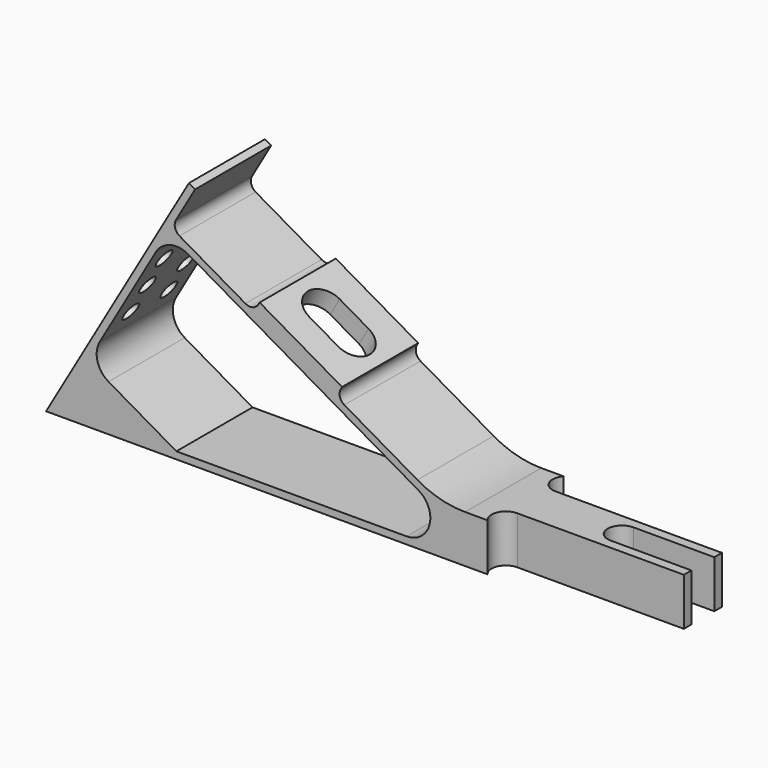
from build123d import *

# Parameters (mm, degrees)
F1_DEPTH       = 10
F3_DEPTH       = 10.001
F5_D           = 8.5
F5_CBORE_D     = 11
F5_CBORE_DEPTH = 2
F4_R           = 1.895
F6_DEPTH       = 1.5
F7_R           = 2
F9_DEPTH       = 4


with BuildPart() as f1:
    # F0 (on Front) → F1 (new body, symmetric)
    with BuildSketch(Plane.XZ):
        with BuildLine():
            Line((30, 51.9615242271), (0, 0))
            Line((0, 0), (130, 0))
            Line((130, 0), (130, 10))
            Line((130, 10), (88.031548244, 10))
            ThreePointArc((88.031548244, 10), (82.855167342, 10.6814834742), (78.031548244, 12.6794919243))
            Line((78.031548244, 12.6794919243), (60.9383223748, 22.5482704812))
            Line((60.9383223748, 22.5482704812), (62.1883223748, 24.7133339907))
            Line((62.1883223748, 24.7133339907), (44.8678142991, 34.7133339907))
            Line((44.8678142991, 34.7133339907), (43.6178142991, 32.5482704812))
            Line((43.6178142991, 32.5482704812), (26.2973062234, 42.5482704812))
            Line((26.2973062234, 42.5482704812), (31.2990381057, 51.2115242271))
            Line((31.2990381057, 51.2115242271), (30, 51.9615242271))
        make_face()
        with BuildLine():
            ThreePointArc((78.2347422219, 10.8301270189), (80.5643713533, 5.2059047745), (75.7347422219, 1.5))
            Line((75.7347422219, 1.5), (27.3774332424, 1.5))
            Line((27.3774332424, 1.5), (13.1251234055, 9.7387149337))
            ThreePointArc((13.1251234055, 9.7387149337), (10.7974587698, 12.7747007163), (11.2973058678, 16.5675077516))
            Line((11.2973058678, 16.5675077516), (23.0473062234, 36.9191053566))
            ThreePointArc((23.0473062234, 36.9191053566), (26.0833380169, 39.2487344881), (29.8774332424, 38.7492323755))
            Line((29.8774332424, 38.7492323755), (78.2347422219, 10.8301270189))
        make_face(mode=Mode.SUBTRACT)
    extrude(amount=F1_DEPTH, both=True)

    # F2 (on face) → F3 (cut, through all)
    with BuildSketch(Plane.XY.offset(10)):
        with BuildLine():
            Line((130, -10), (130, -5))
            Line((130, -5), (95, -5))
            ThreePointArc((95, -5), (92.2613872125, -6.7752551286), (92.7639320225, -10))
            Line((92.7639320225, -10), (130, -10))
        make_face()
        with BuildLine():
            ThreePointArc((92.7639320225, 10), (92.2613872125, 6.7752551286), (95, 5))
            Line((95, 5), (130, 5))
            Line((130, 5), (130, 10))
            Line((130, 10), (92.7639320225, 10))
        make_face()
        with BuildLine():
            Line((130, -3), (130, 3))
            Line((130, 3), (113, 3))
            ThreePointArc((113, 3), (110, 0), (113, -3))
            Line((113, -3), (130, -3))
        make_face()
    extrude(amount=-F3_DEPTH, mode=Mode.SUBTRACT)

    # F5 (through all)
    with Locations(Plane(origin=(0, 0, 0), x_dir=(0, -1, 0), z_dir=(-0.8660254038, 0, 0.5))):
        with Locations((0, 7.5)):
            CounterBoreHole(F5_D / 2, F5_CBORE_D / 2, F5_CBORE_DEPTH)

    # F4 (on face) → F6 (cut, through all)
    with BuildSketch(Plane(origin=(0, 0, 0), x_dir=(0, -1, 0), z_dir=(-0.8660254038, 0, 0.5))):
        with Locations((-5, 39)):
            Circle(F4_R)
        with Locations((5, 39)):
            Circle(F4_R)
        with Locations((-5, 32)):
            Circle(F4_R)
        with Locations((5, 32)):
            Circle(F4_R)
        with Locations((-5, 25)):
            Circle(F4_R)
        with Locations((5, 25)):
            Circle(F4_R)
    extrude(amount=-F6_DEPTH, mode=Mode.SUBTRACT)

    # F7
    f7_edges = [f1.edges().sort_by_distance(p)[0] for p in [
        (43.617814, 0, 32.54827),
        (60.938322, 0, 22.54827),
        (26.297306, 0, 42.54827),
    ]]
    fillet(f7_edges, radius=F7_R)

    # F8 (on face) → F9 (cut, through all)
    with BuildSketch(Plane(origin=(26.2482681178, 0, 45.4633339907), x_dir=(0.8660254038, 0, -0.5), z_dir=(0.5, 0, 0.8660254038))):
        with BuildLine():
            ThreePointArc((28, 4), (24, 0), (28, -4))
            Line((28, -4), (35, -4))
            ThreePointArc((35, -4), (39, 0), (35, 4))
            Line((35, 4), (28, 4))
        make_face()
    extrude(amount=-F9_DEPTH, mode=Mode.SUBTRACT)


solid = f1.part
